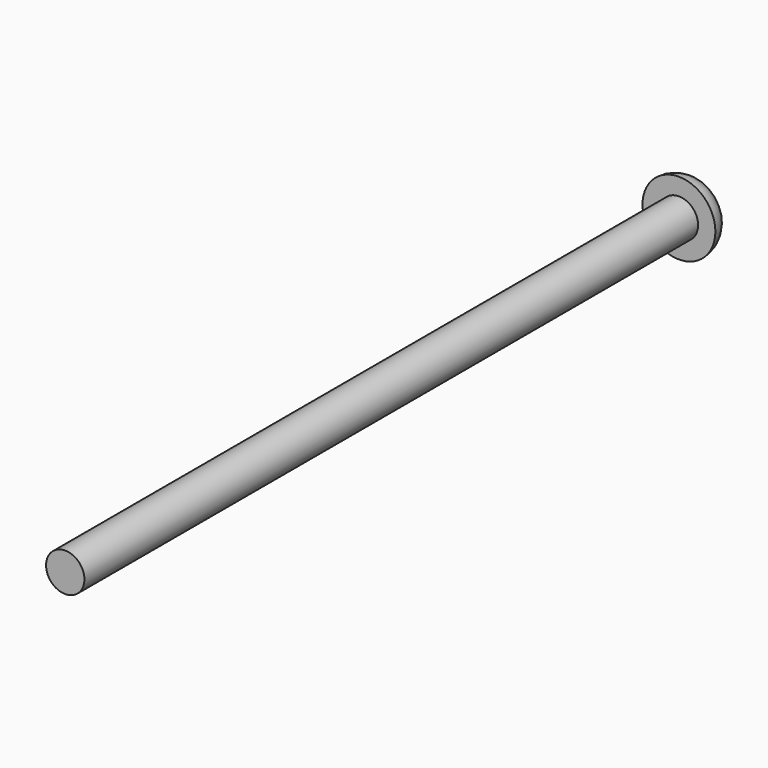
from build123d import *

# Parameters (mm, degrees)
F0_R     = 2.5
F1_DEPTH = 100
F5_DEPTH = 4


with BuildPart() as f1:
    # F0 (on Front) → F1 (new body)
    with BuildSketch(Plane.XZ):
        Circle(F0_R)
    extrude(amount=F1_DEPTH)

    # F2 (on Right) → F3 (revolve)
    with BuildSketch(Plane.YZ):
        with BuildLine():
            Line((0, 4.75), (0, 0))
            Line((0, 0), (3, 0))
            Line((3, 0), (3, 1.5))
            Line((3, 1.5), (3, 2.25))
            ThreePointArc((3, 2.25), (1.952562, 4.043075), (0, 4.75))
        make_face()
    revolve(axis=Axis((0, 0, 0), (0, -1, 0)))

    # F4 (on face) → F5 (cut)
    with BuildSketch(Plane(origin=(0, 3, 0), x_dir=(-1, 0, 0), z_dir=(0, 1, 0))):
        Polygon((-1.5, 0.866025), (-1.5, -0.866025), (0, -1.732051), (1.5, -0.866025), (1.5, 0.866025), (0, 1.732051), align=None)
    extrude(amount=-F5_DEPTH, mode=Mode.SUBTRACT)


solid = f1.part
